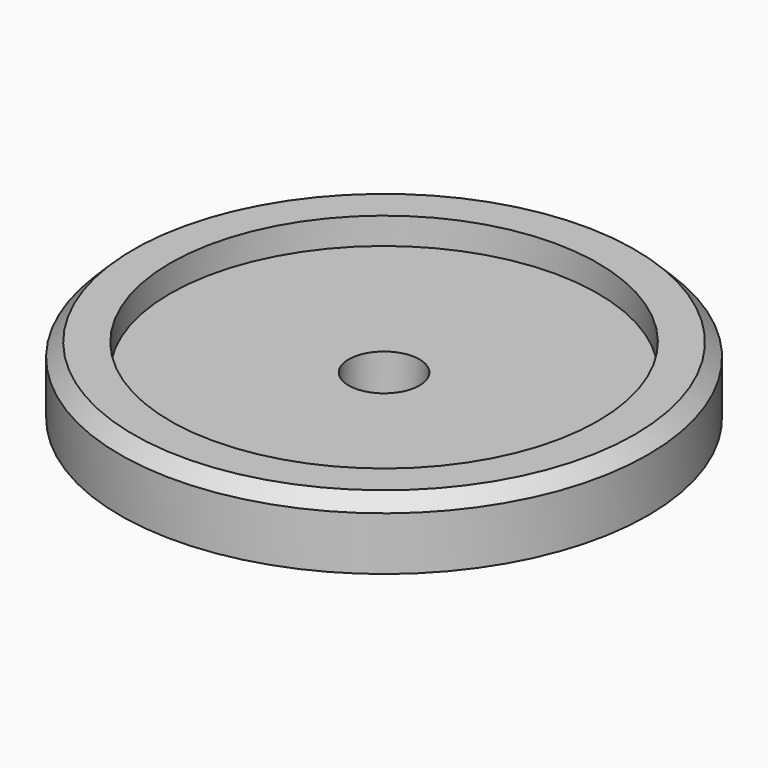
from build123d import *

# Parameters (mm, degrees)
F0_R     = 19.75
F0_R_2   = 16
F1_DEPTH = 5
F0_R_3   = 2.65
F2_DEPTH = 3
F3_SIZE  = 1


with BuildPart() as f1:
    # F0 (on Top) → F1 (new body)
    with BuildSketch(Plane.XY):
        with Locations((2.67812, 0)):
            Circle(F0_R)
        with Locations((2.67812, 0)):
            Circle(F0_R_2, mode=Mode.SUBTRACT)
    extrude(amount=F1_DEPTH)

    # F0 (on Top) → F2 (join)
    with BuildSketch(Plane.XY):
        with Locations((2.67812, 0)):
            Circle(F0_R_2)
        with Locations((2.67812, 0)):
            Circle(F0_R_3, mode=Mode.SUBTRACT)
    extrude(amount=F2_DEPTH)

    # F3
    f3_edges = [f1.edges().sort_by_distance(p)[0] for p in [
        (-17.07188, 0, 5),
    ]]
    chamfer(f3_edges, length=F3_SIZE)


solid = f1.part
